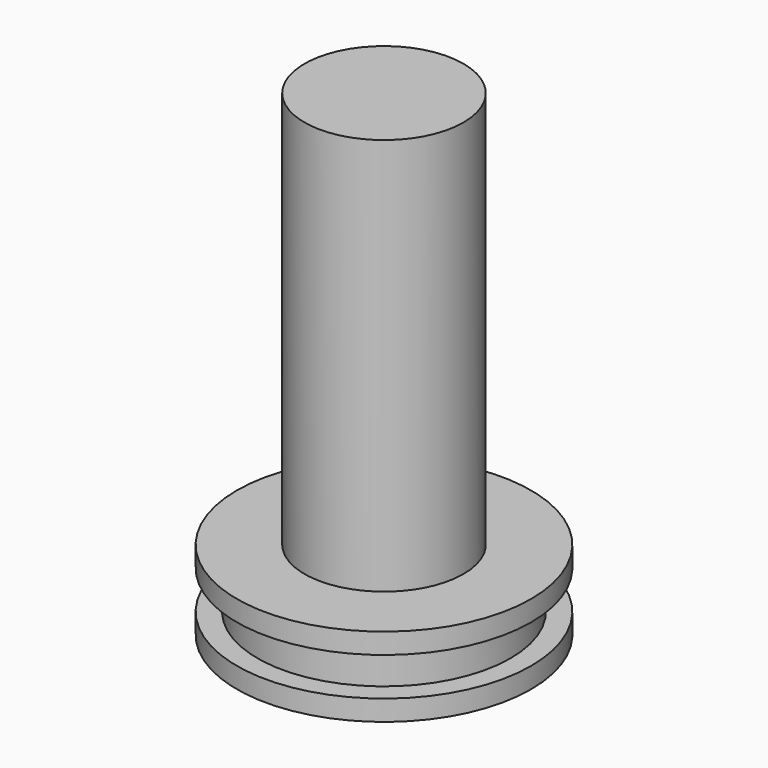
from build123d import *

# Parameters (mm, degrees)
F0_R     = 9.25
F0_R_2   = 3.5
F1_DEPTH = 2.5
F2_R     = 22.5
F2_R_2   = 7.9546
F3_DEPTH = 1.2065
F4_R     = 5
F5_DEPTH = 25
F6_R     = 3.45
F7_DEPTH = 5


with BuildPart() as f1:
    # F0 (on Top) → F1 (new body, symmetric)
    with BuildSketch(Plane.XY):
        Circle(F0_R)
        Circle(F0_R_2, mode=Mode.SUBTRACT)
    extrude(amount=F1_DEPTH, both=True)

    # F2 (on Top) → F3 (cut, symmetric)
    with BuildSketch(Plane.XY):
        Circle(F2_R)
        Circle(F2_R_2, mode=Mode.SUBTRACT)
    extrude(amount=F3_DEPTH, both=True, mode=Mode.SUBTRACT)


with BuildPart() as f5:
    # F4 (on face) → F5 (new body)
    with BuildSketch(Plane.XY.offset(2.5)):
        Circle(F4_R)
    extrude(amount=F5_DEPTH)

    # F6 (on face) → F7 (join, through all)
    with BuildSketch(Plane(origin=(0, 0, 2.5), x_dir=(1, 0, 0), z_dir=(0, 0, -1))):
        Circle(F6_R)
    extrude(amount=F7_DEPTH)


solid = Compound([f1.part, f5.part])
